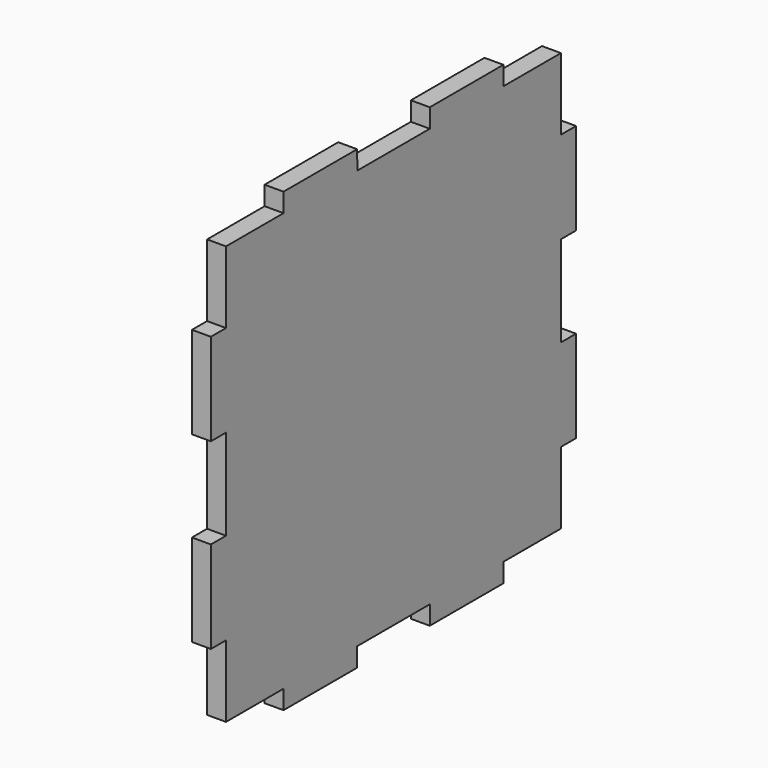
from build123d import *

# Parameters (mm, degrees)
F1_DEPTH = 3.175


with BuildPart() as f1:
    # F0 (on Right) → F1 (new body)
    with BuildSketch(Plane.YZ):
        Polygon((-16.967481, 52.385313), (-29.032481, 52.385313), (-29.032481, 40.320313), (-32.207481, 40.320313), (-32.207481, 24.877113), (-29.032481, 24.877113), (-29.032481, 9.637113), (-32.207481, 9.637113), (-32.207481, -5.806087), (-29.032481, -5.806087), (-29.032481, -17.871087), (-16.967481, -17.871087), (-16.967481, -21.046087), (-1.524281, -21.046087), (-1.524281, -17.871087), (13.715719, -17.871087), (13.715719, -21.046087), (29.158919, -21.046087), (29.158919, -17.871087), (41.223919, -17.871087), (41.223919, -5.806087), (44.398919, -5.806087), (44.398919, 9.637113), (41.223919, 9.637113), (41.223919, 24.877113), (44.398919, 24.877113), (44.398919, 40.320313), (41.223919, 40.320313), (41.223919, 52.385313), (29.158919, 52.385313), (29.158919, 55.560313), (13.715719, 55.560313), (13.715719, 52.385313), (-1.473481, 52.385313), (-1.524281, 55.560313), (-16.967481, 55.560313), align=None)
    extrude(amount=F1_DEPTH)


solid = f1.part
